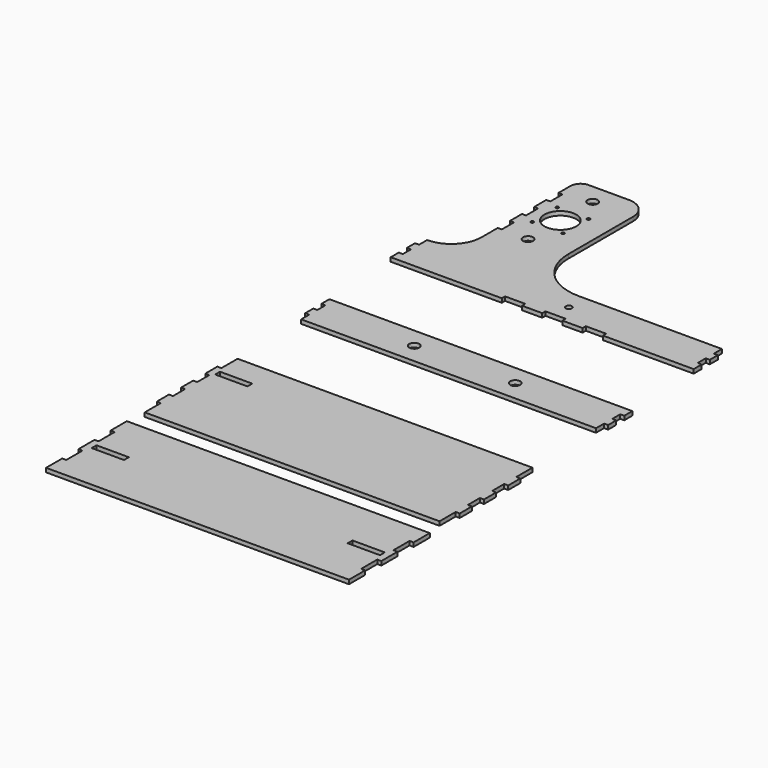
from build123d import *

# Parameters (mm, degrees)
F0_W     = 32
F0_H     = 6
F0_R     = 5
F0_R_2   = 1.5
F0_R_3   = 15.77051
F0_R_4   = 2.993649
F1_DEPTH = 4


with BuildPart() as f1:
    # F0 (on Top) → F1 (new body)
    with BuildSketch(Plane.XY):
        Polygon((119.934696, -371.921642), (-180.065304, -371.921642), (-180.065304, -391.921642), (-176.065304, -391.921642), (-176.065304, -411.921642), (-180.065304, -411.921642), (-180.065304, -431.921642), (-176.065304, -431.921642), (-176.065304, -451.921642), (-180.065304, -451.921642), (-180.065304, -471.921642), (119.934696, -471.921642), (119.934696, -451.921642), (115.934696, -451.921642), (115.934696, -431.921642), (119.934696, -431.921642), (119.934696, -411.921642), (115.934696, -411.921642), (115.934696, -391.921642), (119.934696, -391.921642), align=None)
        with Locations((-157.165304, -421.10312)):
            Rectangle(F0_W, F0_H, mode=Mode.SUBTRACT)
        with Locations((97.034696, -421.921642)):
            Rectangle(F0_W, F0_H, mode=Mode.SUBTRACT)
        Polygon((113.505091, -236.775755), (-178.494909, -236.775755), (-178.494909, -256.775755), (-182.494909, -256.775755), (-182.494909, -271.775755), (-178.494909, -271.775755), (-178.494909, -286.775755), (-182.494909, -286.775755), (-182.494909, -301.775755), (-178.494909, -301.775755), (-178.494909, -316.775755), (-182.494909, -316.775755), (-182.494909, -331.775755), (-178.494909, -331.775755), (-178.494909, -351.775755), (113.505091, -351.775755), (113.505091, -331.775755), (117.505091, -331.775755), (117.505091, -316.775755), (113.505091, -316.775755), (113.505091, -301.775755), (117.505091, -301.775755), (117.505091, -286.775755), (113.505091, -286.775755), (113.505091, -271.775755), (117.505091, -271.775755), (117.505091, -256.775755), (113.505091, -256.775755), align=None)
        with Locations((-159.594909, -265.228896)):
            Rectangle(F0_W, F0_H, mode=Mode.SUBTRACT)
        Polygon((-181.358927, -144.521972), (-181.358927, -154.521972), (110.641073, -154.521972), (110.641073, -144.521972), (114.641073, -144.521972), (114.641073, -134.521972), (110.641073, -134.521972), (110.641073, -124.521972), (114.641073, -124.521972), (114.641073, -114.521972), (-185.358927, -114.521972), (-185.358927, -124.521972), (-181.358927, -124.521972), (-181.358927, -134.521972), (-185.358927, -134.521972), (-185.358927, -144.521972), align=None)
        with Locations((-85.358927, -134.521972)):
            Circle(F0_R, mode=Mode.SUBTRACT)
        with Locations((14.641073, -134.521972)):
            Circle(F0_R, mode=Mode.SUBTRACT)
        with BuildLine():
            Line((-192.256095, -20), (-192.256095, -30))
            Line((-192.256095, -30), (-82.256095, -30))
            Line((-82.256095, -30), (-82.256095, -26))
            Line((-82.256095, -26), (-62.256095, -26))
            Line((-62.256095, -26), (-62.256095, -30))
            Line((-62.256095, -30), (-42.256095, -30))
            Line((-42.256095, -30), (-42.256095, -26))
            Line((-42.256095, -26), (-22.256095, -26))
            Line((-22.256095, -26), (-22.256095, -30))
            Line((-22.256095, -30), (-2.256095, -30))
            Line((-2.256095, -30), (-2.256095, -26))
            Line((-2.256095, -26), (17.743905, -26))
            Line((17.743905, -26), (17.743905, -30))
            Line((17.743905, -30), (107.743905, -30))
            Line((107.743905, -30), (107.743905, -20))
            Line((107.743905, -20), (103.743905, -20))
            Line((103.743905, -20), (103.743905, -10))
            Line((103.743905, -10), (107.743905, -10))
            Line((107.743905, -10), (107.743905, 0))
            Line((107.743905, 0), (103.743905, 0))
            Line((103.743905, 0), (103.743905, 10))
            Line((103.743905, 10), (-38.256095, 10))
            ThreePointArc((-38.256095, 10), (-73.611434, 24.644661), (-88.256095, 60))
            Line((-88.256095, 60), (-88.256095, 140))
            ThreePointArc((-88.256095, 140), (-94.113959, 154.142136), (-108.256095, 160))
            Line((-108.256095, 160), (-148.256095, 160))
            ThreePointArc((-148.256095, 160), (-155.327162, 157.071068), (-158.256095, 150))
            Line((-158.256095, 150), (-158.256095, 135))
            Line((-158.256095, 135), (-154.256095, 135))
            Line((-154.256095, 135), (-154.256095, 120))
            Line((-154.256095, 120), (-158.256095, 120))
            Line((-158.256095, 120), (-158.256095, 105))
            Line((-158.256095, 105), (-154.256095, 105))
            Line((-154.256095, 105), (-154.256095, 104.09586))
            Line((-154.256095, 104.09586), (-154.256095, 90))
            Line((-154.256095, 90), (-158.256095, 90))
            Line((-158.256095, 90), (-158.256095, 75))
            Line((-158.256095, 75), (-154.256095, 75))
            Line((-154.256095, 75), (-154.256095, 60))
            Line((-154.256095, 60), (-158.256095, 60))
            Line((-158.256095, 60), (-158.256095, 40))
            ThreePointArc((-158.256095, 40), (-167.042891, 18.786797), (-188.256095, 10))
            Line((-188.256095, 10), (-188.256095, 0))
            Line((-188.256095, 0), (-192.256095, 0))
            Line((-192.256095, 0), (-192.256095, -10))
            Line((-192.256095, -10), (-188.256095, -10))
            Line((-188.256095, -10), (-188.256095, -20))
            Line((-188.256095, -20), (-192.256095, -20))
        make_face()
        with Locations((-143.756095, 84.5)):
            Circle(F0_R_2, mode=Mode.SUBTRACT)
        with Locations((-128.256095, 60)):
            Circle(F0_R, mode=Mode.SUBTRACT)
        with Locations((-143.756095, 115.5)):
            Circle(F0_R_2, mode=Mode.SUBTRACT)
        with Locations((-128.256095, 100)):
            Circle(F0_R_3, mode=Mode.SUBTRACT)
        with Locations((-128.256095, 140)):
            Circle(F0_R, mode=Mode.SUBTRACT)
        with Locations((-113.350548, 84.5)):
            Circle(F0_R_2, mode=Mode.SUBTRACT)
        with Locations((-112.756095, 115.5)):
            Circle(F0_R_2, mode=Mode.SUBTRACT)
        with Locations((-32.256095, -9.42086)):
            Circle(F0_R_4, mode=Mode.SUBTRACT)
    extrude(amount=F1_DEPTH)


solid = f1.part
